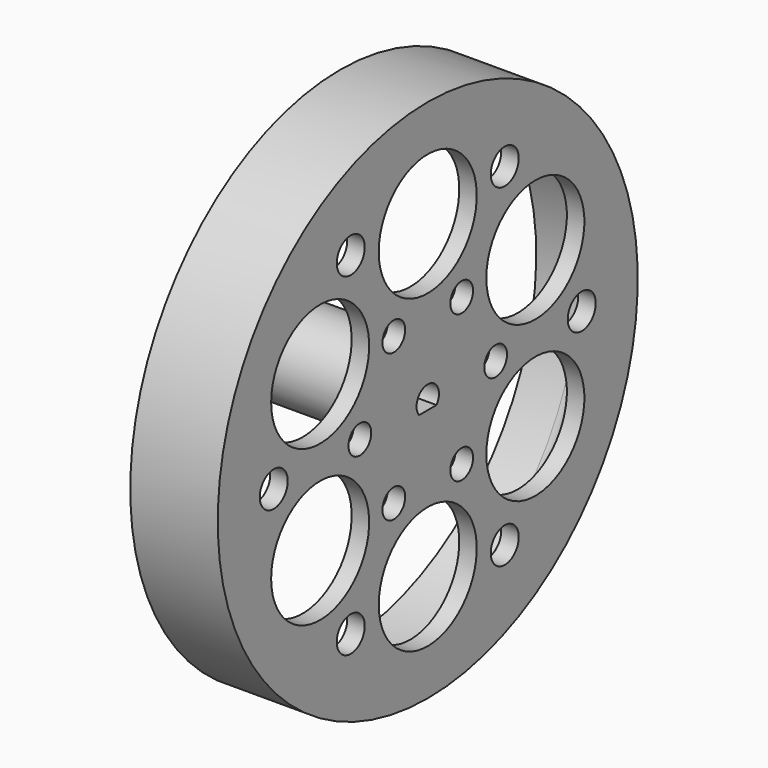
from build123d import *

# Parameters (mm, degrees)
F3_DEPTH = 6
F5_R     = 7
F5_R_2   = 2
F5_R_3   = 1.625392
F6_DEPTH = 2


with BuildPart() as f1:
    # F0 (on Front) → F1 (revolve)
    with BuildSketch(Plane.XZ):
        with BuildLine():
            Line((-2, 25), (-2, 8))
            ThreePointArc((-2, 8), (-2.87868, 5.87868), (-5, 5))
            Line((-5, 5), (-17, 5))
            Line((-17, 5), (-17, 3))
            Line((-17, 3), (-24, 3))
            Line((-24, 3), (-24, 0))
            Line((-24, 0), (-17, 0))
            Line((-17, 0), (-6, 0))
            Line((-6, 0), (-6, 1.6))
            Line((-6, 1.6), (0, 1.6))
            Line((0, 1.6), (0, 28))
            Line((0, 28), (0, 30))
            Line((0, 30), (-10, 30))
            Line((-10, 30), (-10, 28))
            Line((-10, 28), (-5, 28))
            ThreePointArc((-5, 28), (-2.87868, 27.12132), (-2, 25))
        make_face()
    revolve(axis=Axis((-36.628073, 0, 0), (1, 0, 0)))

    # F2 (on face) → F3 (join)
    with BuildSketch(Plane.YZ):
        with BuildLine():
            Line((1.249, -1), (-1.249, -1))
            ThreePointArc((-1.249, -1), (0, -1.6), (1.249, -1))
        make_face()
    extrude(amount=-F3_DEPTH)

    # F5 (on face) → F6 (cut)
    with BuildSketch(Plane(origin=(-2, 0, 0), x_dir=(0, -1, 0), z_dir=(-1, 0, 0))):
        with Locations((0, 17.75)):
            Circle(F5_R)
        with Locations((-15.371951, 8.875)):
            Circle(F5_R)
        with Locations((-15.371951, -8.875)):
            Circle(F5_R)
        with Locations((0, -17.75)):
            Circle(F5_R)
        with Locations((15.371951, -8.875)):
            Circle(F5_R)
        with Locations((15.371951, 8.875)):
            Circle(F5_R)
        with Locations((-11, 19.052559)):
            Circle(F5_R_2)
        with Locations((-4.85, 8.400446)):
            Circle(F5_R_3)
        with Locations((-22, 0)):
            Circle(F5_R_2)
        with Locations((-9.7, 0)):
            Circle(F5_R_3)
        with Locations((-11, -19.052559)):
            Circle(F5_R_2)
        with Locations((-4.85, -8.400446)):
            Circle(F5_R_3)
        with Locations((11, -19.052559)):
            Circle(F5_R_2)
        with Locations((4.85, -8.400446)):
            Circle(F5_R_3)
        with Locations((22, 0)):
            Circle(F5_R_2)
        with Locations((9.7, 0)):
            Circle(F5_R_3)
        with Locations((11, 19.052559)):
            Circle(F5_R_2)
        with Locations((4.85, 8.400446)):
            Circle(F5_R_3)
    extrude(amount=-F6_DEPTH, mode=Mode.SUBTRACT)


solid = f1.part
